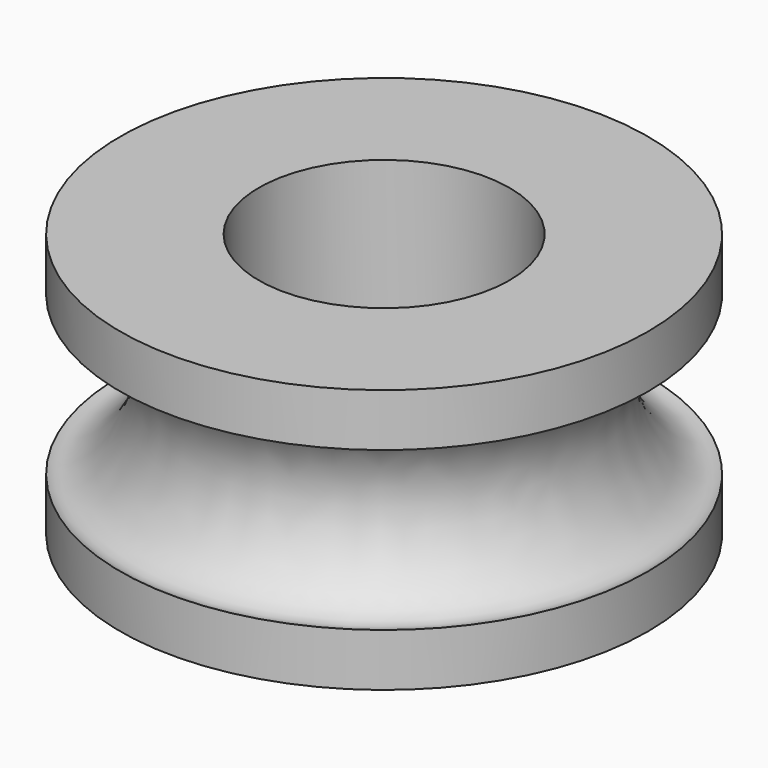
from build123d import *

# Parameters (mm, degrees)
F2_R     = 12.065
F3_DEPTH = 61.722


with BuildPart() as f1:
    # F0 (on Front) → F1 (revolve)
    with BuildSketch(Plane.XZ):
        with BuildLine():
            Line((25.4, 25.4), (0, 25.4))
            Line((0, 25.4), (0, 0))
            Line((0, 0), (25.4, 0))
            Line((25.4, 0), (25.4, 5.08))
            add(Edge.make_bspline(
                [(25.4, 20.32), (23.1042237738, 21.9509356674), (14.6650887867, 13.2384423623), (23.0514018286, 3.5484515339), (25.4, 5.08)],
                knots=[0, 0, 0, 0, 0.3040924942, 0.6187396484, 0.6187396484, 0.6187396484, 0.6187396484], degree=3))
            Line((25.4, 20.32), (25.4, 25.4))
        make_face()
    revolve(axis=Axis((0, 0, 12.7), (0, 0, -1)))

    # F2 (on face) → F3 (cut)
    with BuildSketch(Plane.XY.offset(25.4)):
        Circle(F2_R)
    extrude(amount=-F3_DEPTH, mode=Mode.SUBTRACT)


solid = f1.part
